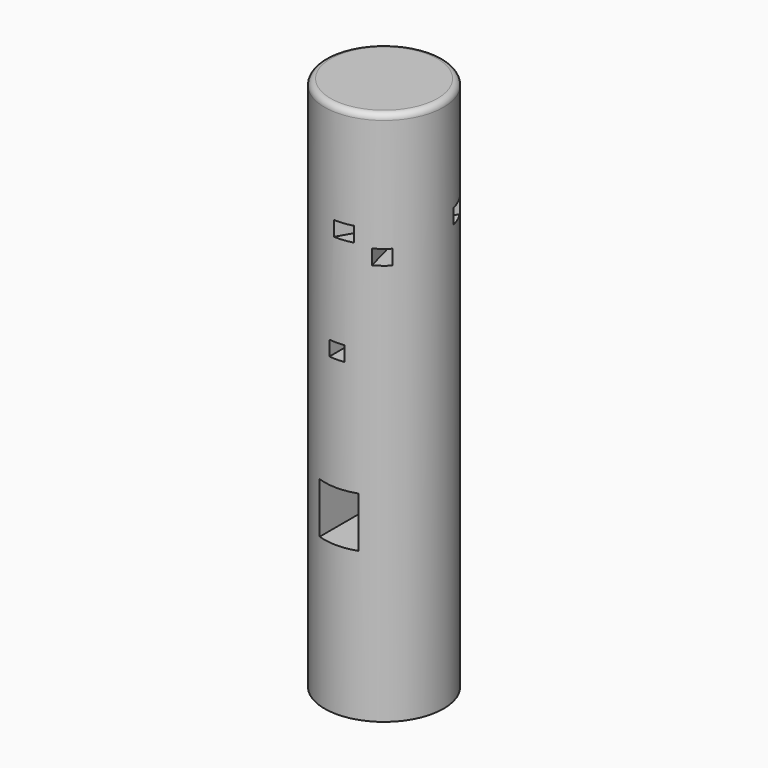
from build123d import *

# Parameters (mm, degrees)
F0_R      = 200
F1_DEPTH  = 1800
F2_W      = 130
F2_H      = 170
F3_DEPTH  = 500
F4_W      = 50
F4_H      = 50
F5_DEPTH  = 500
F8_W      = 50
F8_H      = 50
F9_DEPTH  = 500
F11_W     = 50
F11_H     = 50
F12_DEPTH = 500
F13_R     = 20


with BuildPart() as f1:
    # F0 (on Top) → F1 (new body)
    with BuildSketch(Plane.XY):
        Circle(F0_R)
    extrude(amount=-F1_DEPTH)

    # F2 (on Front) → F3 (cut, symmetric)
    with BuildSketch(Plane.XZ):
        with Locations((0, -1215)):
            Rectangle(F2_W, F2_H)
    extrude(amount=F3_DEPTH, both=True, mode=Mode.SUBTRACT)

    # F4 (on Front) → F5 (cut, symmetric)
    with BuildSketch(Plane.XZ):
        with Locations((0, -725)):
            Rectangle(F4_W, F4_H)
    extrude(amount=F5_DEPTH, both=True, mode=Mode.SUBTRACT)

    # F8 (on face) → F9 (cut, symmetric)
    with BuildSketch(Plane(origin=(0, 0, 0), x_dir=(-0.965926, -0.258819, 0), z_dir=(-0.258819, 0.965926, 0))):
        with Locations((-75, -425)):
            Rectangle(F8_W, F8_H)
    extrude(amount=F9_DEPTH, both=True, mode=Mode.SUBTRACT)

    # F11 (on face) → F12 (cut, symmetric)
    with BuildSketch(Plane(origin=(0, 0, 0), x_dir=(-0.866025, 0.5, 0), z_dir=(0.5, 0.866025, 0))):
        with Locations((-117.285978, -365)):
            Rectangle(F11_W, F11_H)
    extrude(amount=F12_DEPTH, both=True, mode=Mode.SUBTRACT)

    # F13
    f13_edges = [f1.edges().sort_by_distance(p)[0] for p in [
        (-200, 0, 0),
    ]]
    fillet(f13_edges, radius=F13_R)


solid = f1.part
